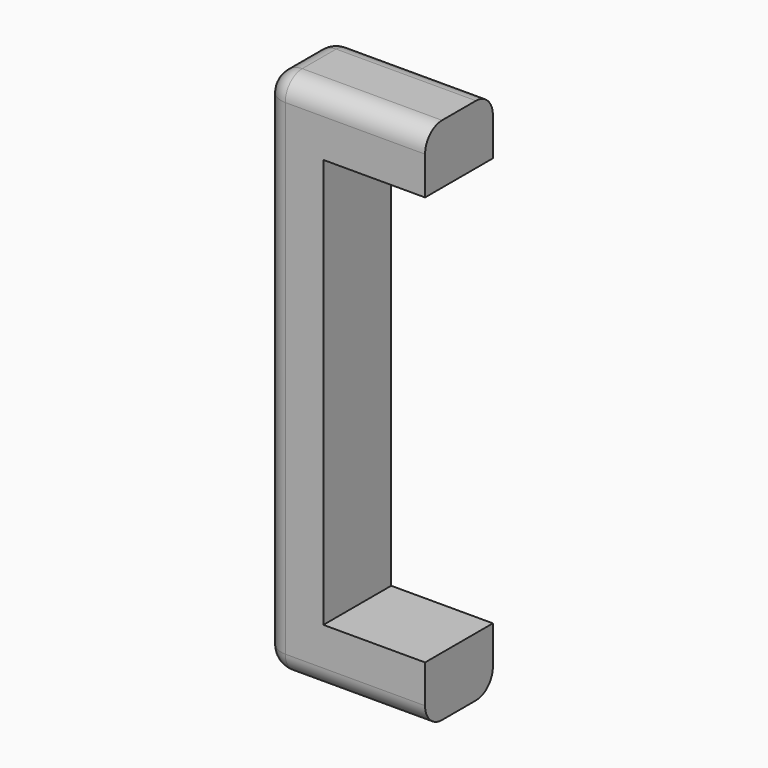
from build123d import *

# Parameters (mm, degrees)
F1_DEPTH = 127
F2_R     = 31.75


with BuildPart() as f1:
    # F0 (on Front) → F1 (new body)
    with BuildSketch(Plane.XZ):
        Polygon((0, -88.9), (0, 0), (-241.3, 0), (-241.3, -791.3497), (0, -791.3497), (0, -702.4497), (-152.4, -702.4497), (-152.4, -88.9), align=None)
    extrude(amount=F1_DEPTH)

    # F2
    f2_edges = [f1.edges().sort_by_distance(p)[0] for p in [
        (-120.65, -127, 0),
        (-241.3, -127, -395.67485),
        (-241.3, 0, -395.67485),
        (-120.65, 0, 0),
        (-120.65, -127, -791.3497),
        (-241.3, -63.5, -791.3497),
        (-241.3, -63.5, 0),
        (-120.65, 0, -791.3497),
    ]]
    fillet(f2_edges, radius=F2_R)


solid = f1.part
